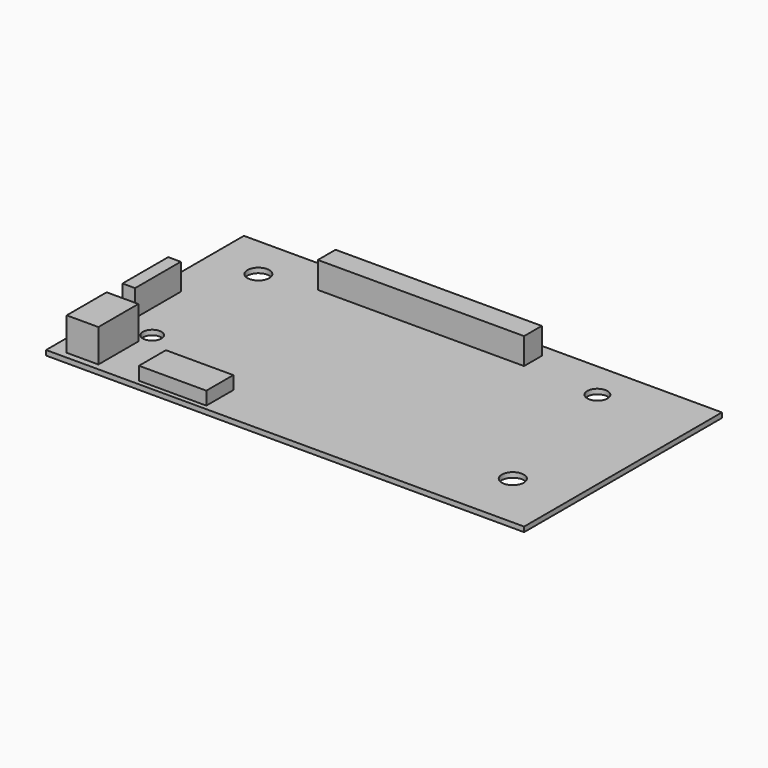
from build123d import *

# Parameters (mm, degrees)
F0_W     = 145
F0_H     = 75
F0_R     = 2.807313
F0_R_2   = 3.341189
F0_R_3   = 3.314808
F0_R_4   = 3.070611
F1_DEPTH = 1.5
F2_W     = 20.444891
F2_H     = 10.22245
F3_DEPTH = 4
F2_W_2   = 3.811762
F2_H_2   = 17.326181
F2_W_3   = 62.547514
F2_H_3   = 6.711255
F4_DEPTH = 8
F2_W_4   = 9.615884
F2_H_4   = 15.152305
F5_DEPTH = 10


with BuildPart() as f1:
    # F0 (on Top) → F1 (new body)
    with BuildSketch(Plane.XY):
        Rectangle(F0_W, F0_H)
        with Locations((-57.613384, -15.869359)):
            Circle(F0_R, mode=Mode.SUBTRACT)
        with Locations((55.052515, -19.9745)):
            Circle(F0_R_2, mode=Mode.SUBTRACT)
        with Locations((-57.561513, 24.321459)):
            Circle(F0_R_3, mode=Mode.SUBTRACT)
        with Locations((43.803934, 26.168576)):
            Circle(F0_R_4, mode=Mode.SUBTRACT)
    extrude(amount=F1_DEPTH)

    # F2 (on face) → F3 (join)
    with BuildSketch(Plane.XY.offset(1.5)):
        with Locations((-35.247806, -30.96582)):
            Rectangle(F2_W, F2_H)
    extrude(amount=F3_DEPTH)

    # F2 (on face) → F4 (join)
    with BuildSketch(Plane.XY.offset(1.5)):
        with Locations((-68.167552, -2.897407)):
            Rectangle(F2_W_2, F2_H_2)
        with Locations((-10.211478, 30.131946)):
            Rectangle(F2_W_3, F2_H_3)
    extrude(amount=F4_DEPTH)

    # F2 (on face) → F5 (join)
    with BuildSketch(Plane.XY.offset(1.5)):
        with Locations((-62.984608, -27.995717)):
            Rectangle(F2_W_4, F2_H_4)
    extrude(amount=F5_DEPTH)


solid = f1.part
